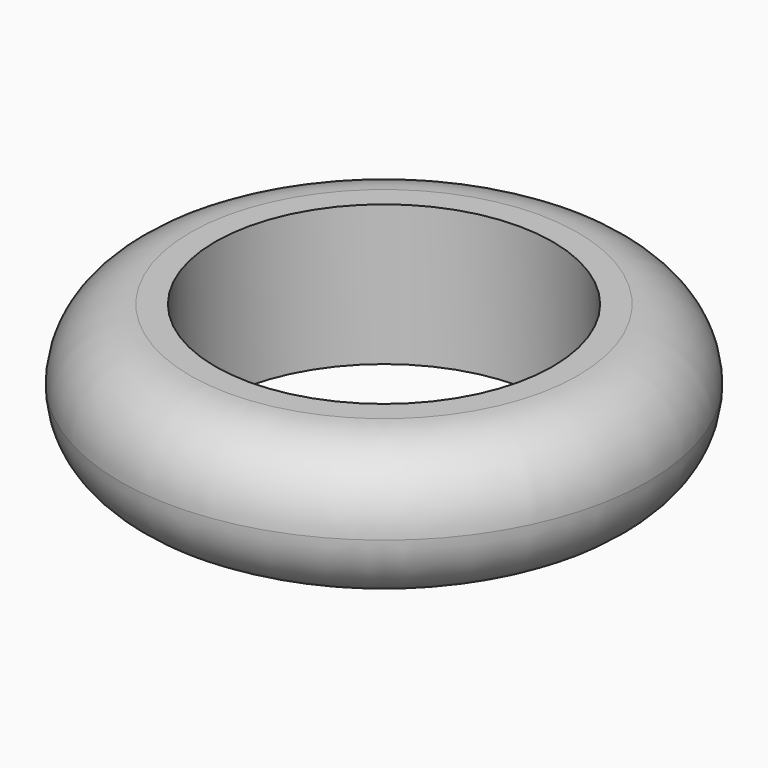
from build123d import *


with BuildPart() as f1:
    # F0 (on Front) → F1 (revolve)
    with BuildSketch(Plane.XZ):
        with BuildLine():
            Line((-1.778542, 0), (0, 0))
            Line((0, 0), (0, 10))
            Line((0, 10), (-1.778542, 10))
            ThreePointArc((-1.778542, 10), (-5.314076, 8.535534), (-6.778542, 5))
            ThreePointArc((-6.778542, 5), (-5.314076, 1.464466), (-1.778542, 0))
        make_face()
    revolve(axis=Axis((12, 0, 5), (0, 0, 1)))


solid = f1.part
